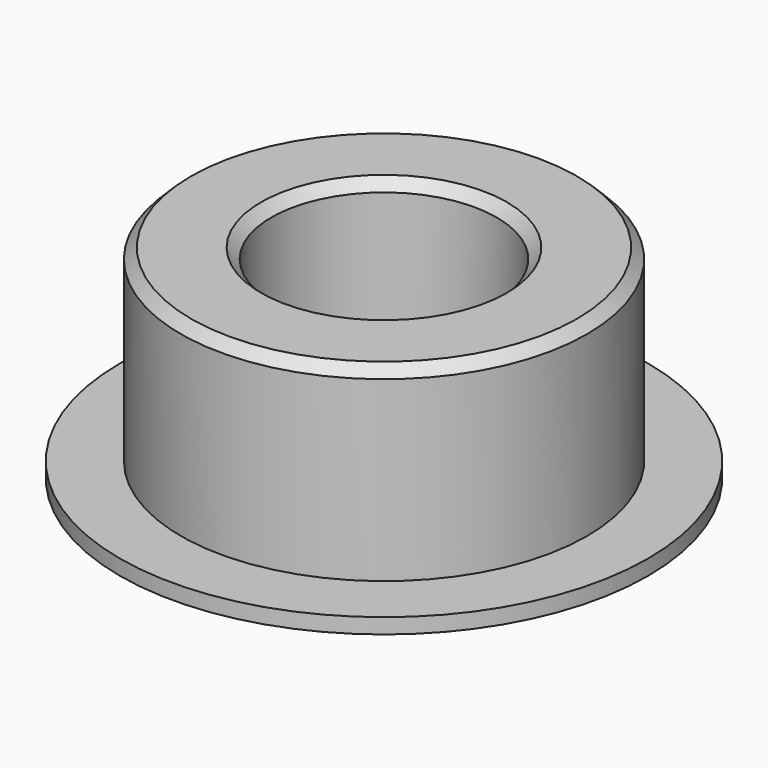
from build123d import *

# Parameters (mm, degrees)
F0_R     = 8.1
F0_R_2   = 7.1
F1_DEPTH = 2
F0_R_3   = 11.1
F2_DEPTH = 7
F0_R_4   = 20
F3_DEPTH = 20
F0_R_5   = 26
F4_DEPTH = 1.5
F5_SIZE  = 1


with BuildPart() as f1:
    # F0 (on Top) → F1 (new body)
    with BuildSketch(Plane.XY):
        Circle(F0_R)
        Circle(F0_R_2, mode=Mode.SUBTRACT)
    extrude(amount=F1_DEPTH)

    # F0 (on Top) → F2 (join)
    with BuildSketch(Plane.XY):
        Circle(F0_R_3)
        Circle(F0_R, mode=Mode.SUBTRACT)
    extrude(amount=F2_DEPTH)

    # F0 (on Top) → F3 (join)
    with BuildSketch(Plane.XY):
        Circle(F0_R_4)
        Circle(F0_R_3, mode=Mode.SUBTRACT)
    extrude(amount=F3_DEPTH)

    # F0 (on Top) → F4 (join)
    with BuildSketch(Plane.XY):
        Circle(F0_R_5)
        Circle(F0_R_4, mode=Mode.SUBTRACT)
    extrude(amount=F4_DEPTH)

    # F5
    f5_edges = [f1.edges().sort_by_distance(p)[0] for p in [
        (-20, 0, 20),
        (-11.1, 0, 20),
        (-8.1, 0, 7),
    ]]
    chamfer(f5_edges, length=F5_SIZE)


solid = f1.part
